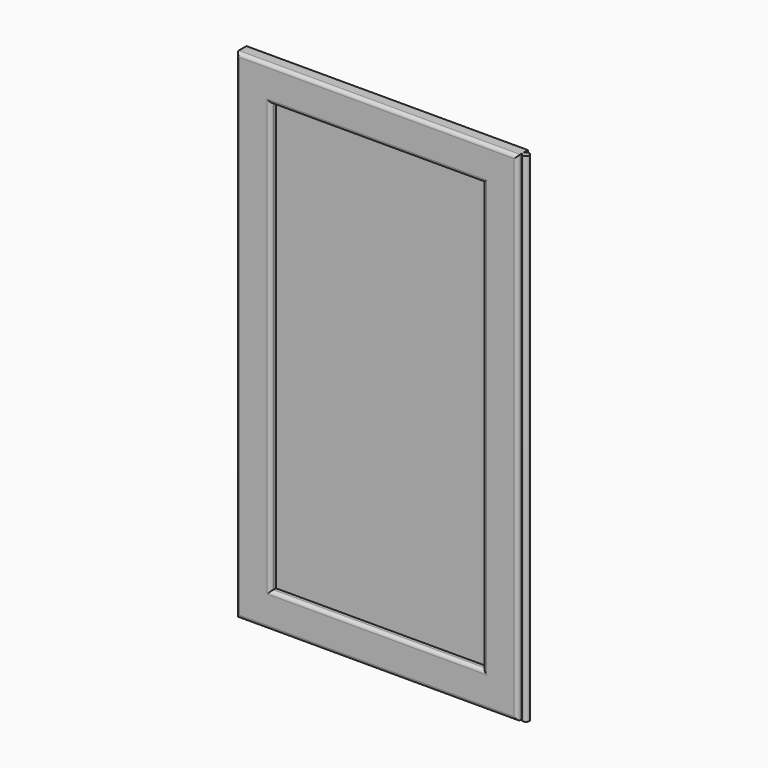
from build123d import *

# Parameters (mm, degrees)
F0_W     = 412.75
F0_H     = 730.25
F1_DEPTH = 19.05
F3_DEPTH = 730.25
F4_W     = 311.15
F4_H     = 628.65
F5_DEPTH = 9.525
F6_R     = 5.08


with BuildPart() as f1:
    # F0 (on Front) → F1 (new body)
    with BuildSketch(Plane.XZ):
        with Locations((0, 365.125)):
            Rectangle(F0_W, F0_H)
    extrude(amount=-F1_DEPTH)

    # F2 (on Top) → F3 (join, through all)
    with BuildSketch(Plane.XY):
        with BuildLine():
            Line((204.7875, 7.9375), (206.6473719395, 7.9375))
            ThreePointArc((206.6473719395, 7.9375), (215.9, 9.525), (206.6473719395, 11.1125))
            Line((206.6473719395, 11.1125), (204.7875, 11.1125))
            Line((204.7875, 11.1125), (204.7875, 7.9375))
        make_face()
    extrude(amount=F3_DEPTH)

    # F4 (on Front) → F5 (cut)
    with BuildSketch(Plane.XZ):
        with Locations((0, 365.125)):
            Rectangle(F4_W, F4_H)
    extrude(amount=-F5_DEPTH, mode=Mode.SUBTRACT)

    # F6
    f6_edges = [f1.edges().sort_by_distance(p)[0] for p in [
        (-206.375, 0, 365.125),
        (0, 0, 730.25),
        (0, 0, 0),
        (206.375, 0, 365.125),
        (155.575, 0, 365.125),
        (0, 0, 679.45),
        (-155.575, 0, 365.125),
        (0, 0, 50.8),
    ]]
    fillet(f6_edges, radius=F6_R)


solid = f1.part
